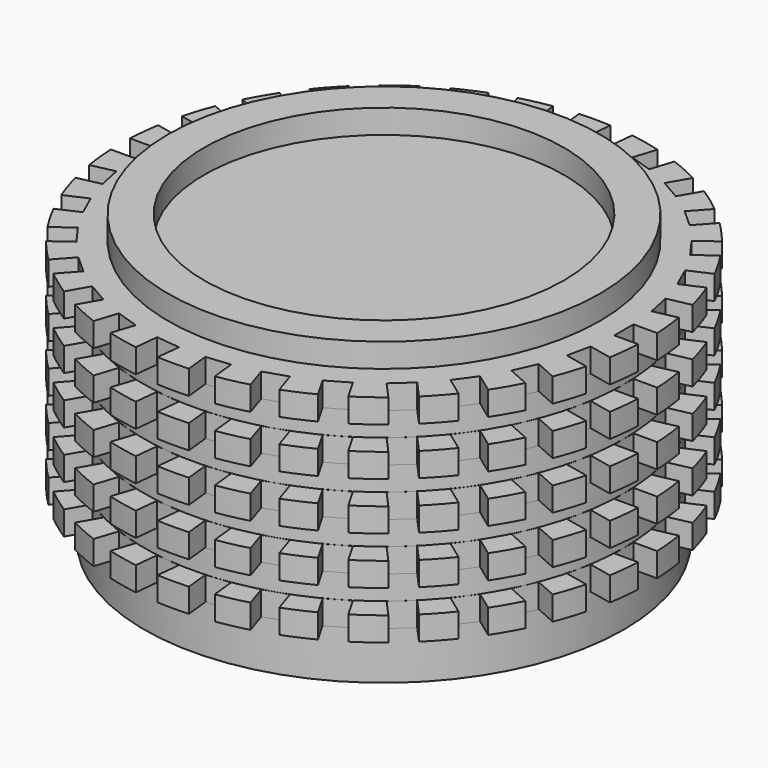
from build123d import *

# Parameters (mm, degrees)
SKETCH_R           = 10
PAD_DEPTH          = 10
SKETCH003_W        = 1
SKETCH003_H        = 1
POCKET_DEPTH       = 100
POLARPATTERN_COUNT = 30
SKETCH004_R        = 9
SKETCH004_R_2      = 7.5
PAD001_DEPTH       = 1
SKETCH005_R        = 10
PAD002_DEPTH       = 1


with BuildPart() as part:
    # Sketch → Pad (new body)
    with BuildSketch(Plane.XY):
        Circle(SKETCH_R)
    extrude(amount=PAD_DEPTH)

    # Sketch002 → Revolution (revolve)
    with BuildSketch(Plane.XZ):
        Polygon((11, 10), (11, 9), (10, 9), (10, 8), (11, 8), (11, 7), (10, 7), (10, 6), (11, 6), (11, 5), (10, 5), (10, 4), (11, 4), (11, 3), (10, 3), (10, 2), (11, 2), (11, 1), (10, 1), (10, 0), (0, 0), (0, 10), align=None)
    revolve(axis=Axis((0, 0, 0), (0, 0, 1)))

    # Sketch003 (on Face22 of Revolution) → Pocket (cut)
    with BuildSketch(Plane.XY.offset(10)):
        with Locations((-10.5, 0)):
            Rectangle(SKETCH003_W, SKETCH003_H)
    pocket = extrude(amount=-POCKET_DEPTH, mode=Mode.SUBTRACT)

    # PolarPattern: Pocket ×30 about axis
    polarpattern_axis = Axis((0, 0, 10), (0, 0, 1))
    for i in range(1, POLARPATTERN_COUNT):
        add(pocket.rotate(polarpattern_axis, i * 360 / POLARPATTERN_COUNT), mode=Mode.SUBTRACT)

    # Sketch004 (on Face963 of PolarPattern) → Pad001 (join)
    with BuildSketch(Plane.XY.offset(10)):
        Circle(SKETCH004_R)
        Circle(SKETCH004_R_2, mode=Mode.SUBTRACT)
    extrude(amount=PAD001_DEPTH)

    # Sketch005 (on Face5 of Pad001) → Pad002 (join)
    with BuildSketch(Plane(origin=(0, 0, 0), x_dir=(1, 0, 0), z_dir=(0, 0, -1))):
        Circle(SKETCH005_R)
    extrude(amount=PAD002_DEPTH)


solid = part.part
